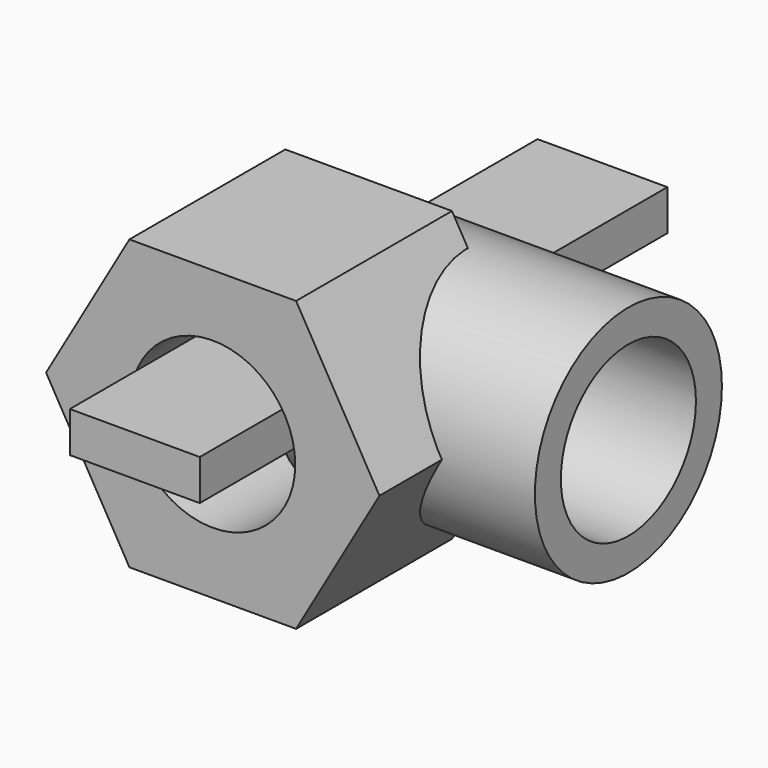
from build123d import *

# Parameters (mm, degrees)
F0_R     = 6.35
F1_DEPTH = 15
F2_R     = 9
F2_R_2   = 6.5
F3_DEPTH = 20
F4_W     = 10
F4_H     = 45
F5_DEPTH = 3.125


with BuildPart() as f1:
    # F0 (on Front) → F1 (new body)
    with BuildSketch(Plane.XZ):
        Polygon((6.415805, 11.1125), (-6.415805, 11.1125), (-12.83161, 0), (-6.415805, -11.1125), (6.415805, -11.1125), (12.83161, 0), align=None)
        Circle(F0_R, mode=Mode.SUBTRACT)
    extrude(amount=F1_DEPTH)


with BuildPart() as f3:
    # F2 (on Right) → F3 (new body)
    with BuildSketch(Plane.YZ):
        Circle(F2_R)
        Circle(F2_R_2, mode=Mode.SUBTRACT)
    extrude(amount=F3_DEPTH)


with BuildPart() as f5:
    # F4 (on Top) → F5 (new body)
    with BuildSketch(Plane.XY):
        Rectangle(F4_W, F4_H)
    extrude(amount=F5_DEPTH)


solid = Compound([f1.part, f3.part, f5.part])
